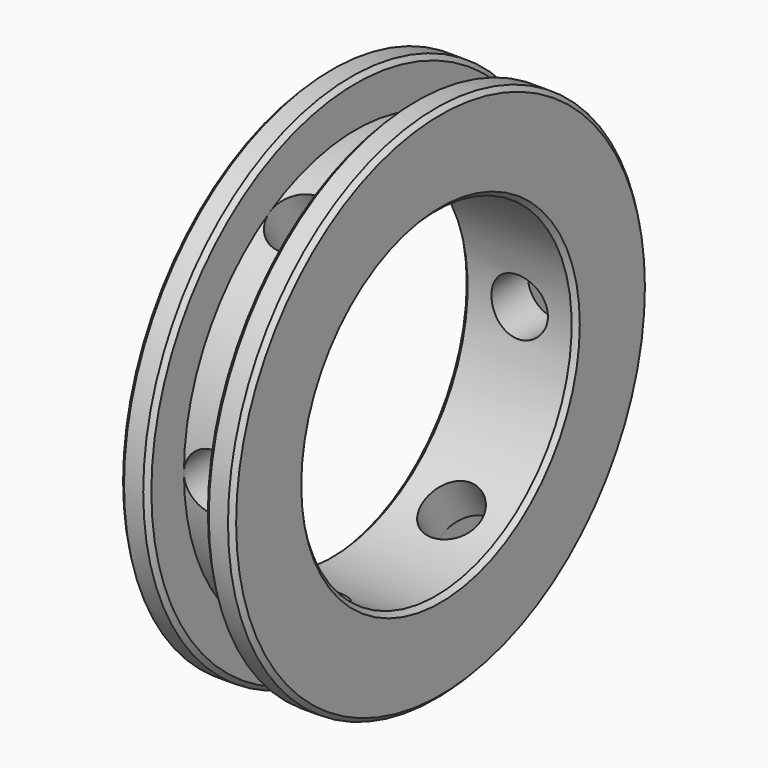
from build123d import *

# Parameters (mm, degrees)
F0_W     = 1.25
F0_H     = 9
F3_COUNT = 6
F5_SIZE  = 0.2
F6_SIZE  = 0.2


with BuildPart() as f1:
    # F0 (on Top) → F1 (revolve)
    with BuildSketch(Plane.XY):
        Polygon((2.5, -7.5), (0, -7.5), (-2.5, -7.5), (-2.5, -11.5), (-1.25, -11.5), (-1.25, -9.5), (0, -9.5), (1.25, -9.5), (1.25, -11.5), (2.5, -11.5), align=None)
    revolve(axis=Axis((6.057695, 0, 0), (1, 0, 0)))


with BuildPart() as f2:
    # F0 (on Top) → F2 (revolve)
    with BuildSketch(Plane.XY):
        with Locations((0.625, 8.5)):
            Rectangle(F0_W, F0_H)
    revolve(axis=Axis((0, 8.5, 0), (0, -1, 0)))


with BuildPart() as f3_1:
    # F3: instance of F2
    add(f2.part.rotate(Axis((6.057695, 0, 0), (1, 0, 0)), 1 * 360 / F3_COUNT))


with BuildPart() as f3_2:
    # F3: instance of F2
    add(f2.part.rotate(Axis((6.057695, 0, 0), (1, 0, 0)), 2 * 360 / F3_COUNT))


with BuildPart() as f3_3:
    # F3: instance of F2
    add(f2.part.rotate(Axis((6.057695, 0, 0), (1, 0, 0)), 3 * 360 / F3_COUNT))


with BuildPart() as f3_4:
    # F3: instance of F2
    add(f2.part.rotate(Axis((6.057695, 0, 0), (1, 0, 0)), 4 * 360 / F3_COUNT))


with BuildPart() as f3_5:
    # F3: instance of F2
    add(f2.part.rotate(Axis((6.057695, 0, 0), (1, 0, 0)), 5 * 360 / F3_COUNT))


with BuildPart() as f1_1:
    add(f1.part)

    # F4: cut F2, F3_2, F3_1, F3_3, F3_4, F3_5
    add(f2.part, mode=Mode.SUBTRACT)
    add(f3_2.part, mode=Mode.SUBTRACT)
    add(f3_1.part, mode=Mode.SUBTRACT)
    add(f3_3.part, mode=Mode.SUBTRACT)
    add(f3_4.part, mode=Mode.SUBTRACT)
    add(f3_5.part, mode=Mode.SUBTRACT)

    # F5
    f5_edges = [f1_1.edges().sort_by_distance(p)[0] for p in [
        (2.5, 11.5, 0),
        (-2.5, 11.5, 0),
    ]]
    chamfer(f5_edges, length=F5_SIZE)

    # F6
    f6_edges = [f1_1.edges().sort_by_distance(p)[0] for p in [
        (-1.25, 11.5, 0),
        (1.25, 11.5, 0),
        (2.5, 7.5, 0),
        (-2.5, 7.5, 0),
    ]]
    chamfer(f6_edges, length=F6_SIZE)


solid = f1_1.part
